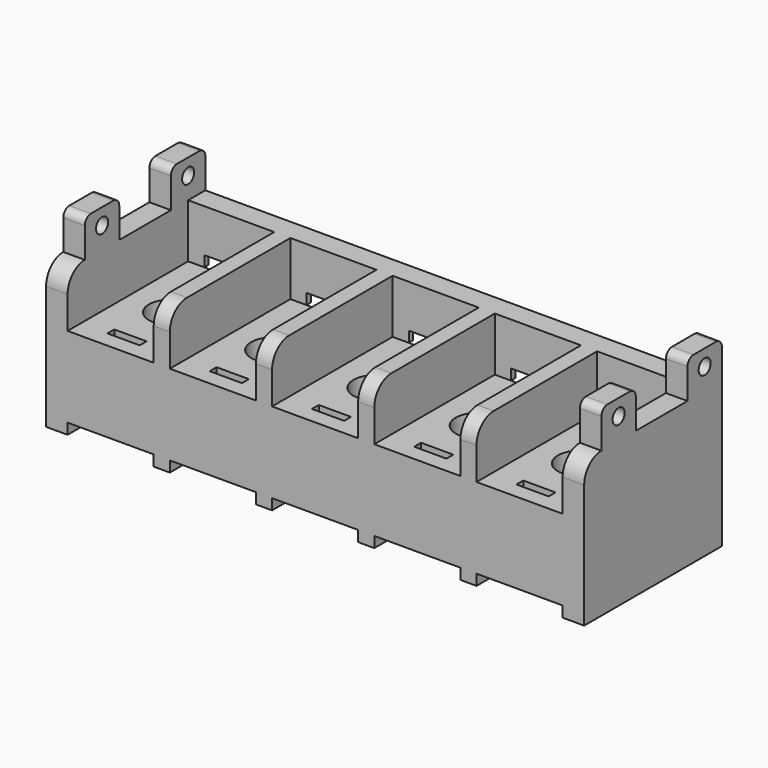
from build123d import *

# Parameters (mm, degrees)
PAD_DEPTH       = 25
SKETCH001_W     = 1
SKETCH001_H     = 8
SKETCH001_W_2   = 5
POCKET_DEPTH    = 14
SKETCH002_W     = 12.5
SKETCH002_H     = 8
POCKET001_DEPTH = 1.5
POCKET002_DEPTH = 0.5
SKETCH004_R     = 2
SKETCH004_W     = 0.8
SKETCH004_H     = 3
POCKET003_DEPTH = 8
SKETCH005_R     = 0.7
PAD001_DEPTH    = 2
SKETCH006_R     = 0.7
PAD002_DEPTH    = 2


with BuildPart() as part:
    # Sketch → Pad (new body, symmetric)
    with BuildSketch(Plane.YZ):
        with BuildLine():
            Line((-6, 13.5), (8, 13.5))
            Line((8, 13.5), (8, 0))
            Line((8, 0), (-8, 0))
            Line((-8, 0), (-8, 11.5))
            ThreePointArc((-6, 13.5), (-7.414214, 12.914214), (-8, 11.5))
        make_face()
    extrude(amount=PAD_DEPTH, both=True)

    # Sketch001 (on Face4 of Pad) → Pocket (cut)
    with BuildSketch(Plane(origin=(0, -8, 0), x_dir=(0, 0, -1), z_dir=(0, -1, 0))):
        with Locations((-0.5, -19)):
            Rectangle(SKETCH001_W, SKETCH001_H)
        with Locations((-0.5, -9.5)):
            Rectangle(SKETCH001_W, SKETCH001_H)
        with Locations((-0.5, 0)):
            Rectangle(SKETCH001_W, SKETCH001_H)
        with Locations((-0.5, 9.5)):
            Rectangle(SKETCH001_W, SKETCH001_H)
        with Locations((-0.5, 19)):
            Rectangle(SKETCH001_W, SKETCH001_H)
        with Locations((-11, -19)):
            Rectangle(SKETCH001_W_2, SKETCH001_H)
        with Locations((-11, -9.5)):
            Rectangle(SKETCH001_W_2, SKETCH001_H)
        with Locations((-11, 0)):
            Rectangle(SKETCH001_W_2, SKETCH001_H)
        with Locations((-11, 9.5)):
            Rectangle(SKETCH001_W_2, SKETCH001_H)
        with Locations((-11, 19)):
            Rectangle(SKETCH001_W_2, SKETCH001_H)
    extrude(amount=-POCKET_DEPTH, mode=Mode.SUBTRACT)

    # Sketch002 (on Face3 of Pocket) → Pocket001 (cut)
    with BuildSketch(Plane.ZX.offset(8)):
        with Locations((6.25, 19)):
            Rectangle(SKETCH002_W, SKETCH002_H)
        with Locations((6.25, 9.5)):
            Rectangle(SKETCH002_W, SKETCH002_H)
        with Locations((6.25, 0)):
            Rectangle(SKETCH002_W, SKETCH002_H)
        with Locations((6.25, -9.5)):
            Rectangle(SKETCH002_W, SKETCH002_H)
        with Locations((6.25, -19)):
            Rectangle(SKETCH002_W, SKETCH002_H)
    extrude(amount=-POCKET001_DEPTH, mode=Mode.SUBTRACT)

    # Sketch003 (on Face67 of Pocket001) → Pocket002 (cut)
    with BuildSketch(Plane.ZX.offset(6.5)):
        Polygon((0, 23), (8.5, 23), (8.5, 21.5), (9.5, 21.5), (9.5, 16.5), (8.5, 16.5), (8.5, 15), (0, 15), align=None)
        Polygon((0, 13.5), (8.5, 13.5), (8.5, 12), (9.5, 12), (9.5, 7), (8.5, 7), (8.5, 5.5), (0, 5.5), align=None)
        Polygon((0, 4), (8.5, 4), (8.5, 2.5), (9.5, 2.5), (9.5, -2.5), (8.5, -2.5), (8.5, -4), (0, -4), align=None)
        Polygon((0, -5.5), (8.5, -5.5), (8.5, -7), (9.5, -7), (9.5, -12), (8.5, -12), (8.5, -13.5), (0, -13.5), align=None)
        Polygon((0, -15), (8.5, -15), (8.5, -16.5), (9.5, -16.5), (9.5, -21.5), (8.5, -21.5), (8.5, -23), (0, -23), align=None)
    extrude(amount=-POCKET002_DEPTH, mode=Mode.SUBTRACT)

    # Sketch004 (on Face64 of Pocket002) → Pocket003 (cut)
    with BuildSketch(Plane(origin=(0, 0, 8.5), x_dir=(0, -1, 0), z_dir=(0, 0, 1))):
        with Locations((1.05, -19)):
            Circle(SKETCH004_R)
        with Locations((1.05, -9.5)):
            Circle(SKETCH004_R)
        with Locations((1.05, 0)):
            Circle(SKETCH004_R)
        with Locations((1.05, 9.5)):
            Circle(SKETCH004_R)
        with Locations((1.05, 19)):
            Circle(SKETCH004_R)
        with Locations((-4, -19)):
            Rectangle(SKETCH004_W, SKETCH004_H)
        with Locations((-4, -9.5)):
            Rectangle(SKETCH004_W, SKETCH004_H)
        with Locations((-4, 0)):
            Rectangle(SKETCH004_W, SKETCH004_H)
        with Locations((-4, 9.5)):
            Rectangle(SKETCH004_W, SKETCH004_H)
        with Locations((-4, 19)):
            Rectangle(SKETCH004_W, SKETCH004_H)
        with Locations((6.1, -19)):
            Rectangle(SKETCH004_W, SKETCH004_H)
        with Locations((6.1, -9.5)):
            Rectangle(SKETCH004_W, SKETCH004_H)
        with Locations((6.1, 0)):
            Rectangle(SKETCH004_W, SKETCH004_H)
        with Locations((6.1, 9.5)):
            Rectangle(SKETCH004_W, SKETCH004_H)
        with Locations((6.1, 19)):
            Rectangle(SKETCH004_W, SKETCH004_H)
    extrude(amount=-POCKET003_DEPTH, mode=Mode.SUBTRACT)

    # Sketch005 (on Face2 of Pocket003) → Pad001 (join)
    with BuildSketch(Plane(origin=(-25, 0, 0), x_dir=(0, 1, 0), z_dir=(-1, 0, 0))):
        with BuildLine():
            Line((-6, -13.5), (-2, -13.5))
            Line((-2, -13.5), (-2, -16.3))
            ThreePointArc((-2.7, -17), (-2.205025, -16.794975), (-2, -16.3))
            Line((-2.7, -17), (-5.3, -17))
            ThreePointArc((-6, -16.3), (-5.794975, -16.794975), (-5.3, -17))
            Line((-6, -16.3), (-6, -13.5))
        make_face()
        with Locations((-4, -15.5)):
            Circle(SKETCH005_R, mode=Mode.SUBTRACT)
        with BuildLine():
            Line((4, -13.5), (8, -13.5))
            Line((8, -13.5), (8, -16.3))
            ThreePointArc((7.3, -17), (7.794975, -16.794975), (8, -16.3))
            Line((7.3, -17), (4.7, -17))
            ThreePointArc((4, -16.3), (4.205025, -16.794975), (4.7, -17))
            Line((4, -16.3), (4, -13.5))
        make_face()
        with Locations((6, -15.5)):
            Circle(SKETCH005_R, mode=Mode.SUBTRACT)
    extrude(amount=-PAD001_DEPTH)

    # Sketch006 (on Face4 of Pocket003) → Pad002 (join)
    with BuildSketch(Plane(origin=(25, 0, 0), x_dir=(0, 1, 0), z_dir=(-1, 0, 0))):
        with BuildLine():
            Line((-6, -13.5), (-2, -13.5))
            Line((-2, -13.5), (-2, -16.3))
            ThreePointArc((-2.7, -17), (-2.205025, -16.794975), (-2, -16.3))
            Line((-2.7, -17), (-5.3, -17))
            ThreePointArc((-6, -16.3), (-5.794975, -16.794975), (-5.3, -17))
            Line((-6, -16.3), (-6, -13.5))
        make_face()
        with Locations((-4, -15.5)):
            Circle(SKETCH006_R, mode=Mode.SUBTRACT)
        with BuildLine():
            Line((4, -13.5), (8, -13.5))
            Line((8, -13.5), (8, -16.3))
            ThreePointArc((7.3, -17), (7.794975, -16.794975), (8, -16.3))
            Line((7.3, -17), (4.7, -17))
            ThreePointArc((4, -16.3), (4.205025, -16.794975), (4.7, -17))
            Line((4, -16.3), (4, -13.5))
        make_face()
        with Locations((6, -15.5)):
            Circle(SKETCH006_R, mode=Mode.SUBTRACT)
    extrude(amount=PAD002_DEPTH)


solid = part.part
